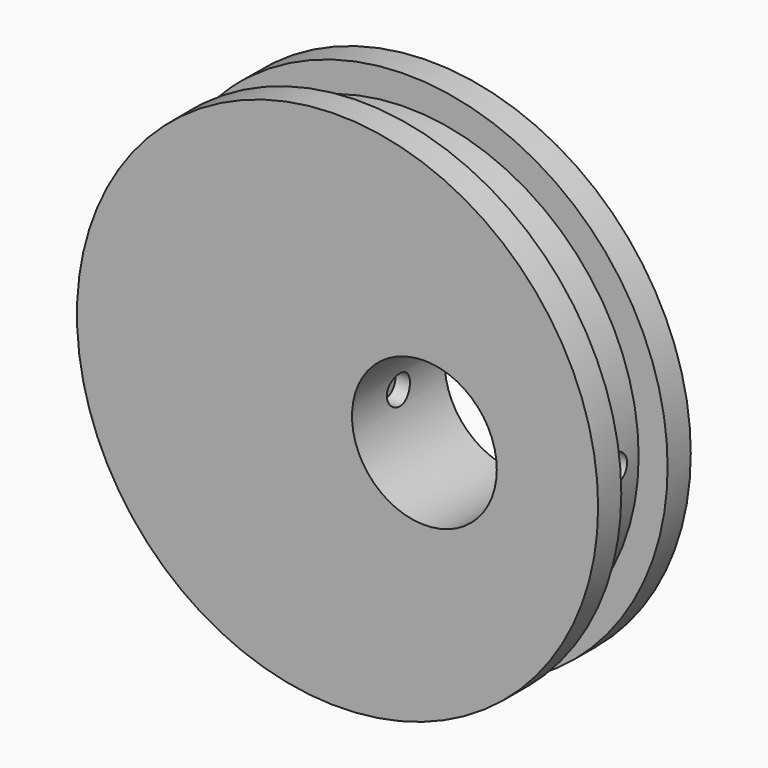
from build123d import *

# Parameters (mm, degrees)
F0_R     = 28.575
F0_R_2   = 7.9375
F1_DEPTH = 12.7
F2_W     = 3.175
F2_H     = 6.35
F5_R     = 1.5875
F6_DEPTH = 25.4


with BuildPart() as f1:
    # F0 (on Front) → F1 (new body)
    with BuildSketch(Plane.XZ):
        Circle(F0_R)
        with Locations((9.525, 0)):
            Circle(F0_R_2, mode=Mode.SUBTRACT)
    extrude(amount=F1_DEPTH)

    # F2 (on Top) → F4 (revolve, cut)
    with BuildSketch(Plane.XY):
        with Locations((26.9875, -6.35)):
            Rectangle(F2_W, F2_H)
    revolve(axis=Axis((-0.004353, -5.31878, 0), (0.000473, -1, 0)), mode=Mode.SUBTRACT)

    # F5 (on Right) → F6 (cut)
    with BuildSketch(Plane.YZ):
        with Locations((-6.35, 0)):
            Circle(F5_R)
    extrude(amount=F6_DEPTH, mode=Mode.SUBTRACT)


solid = f1.part
